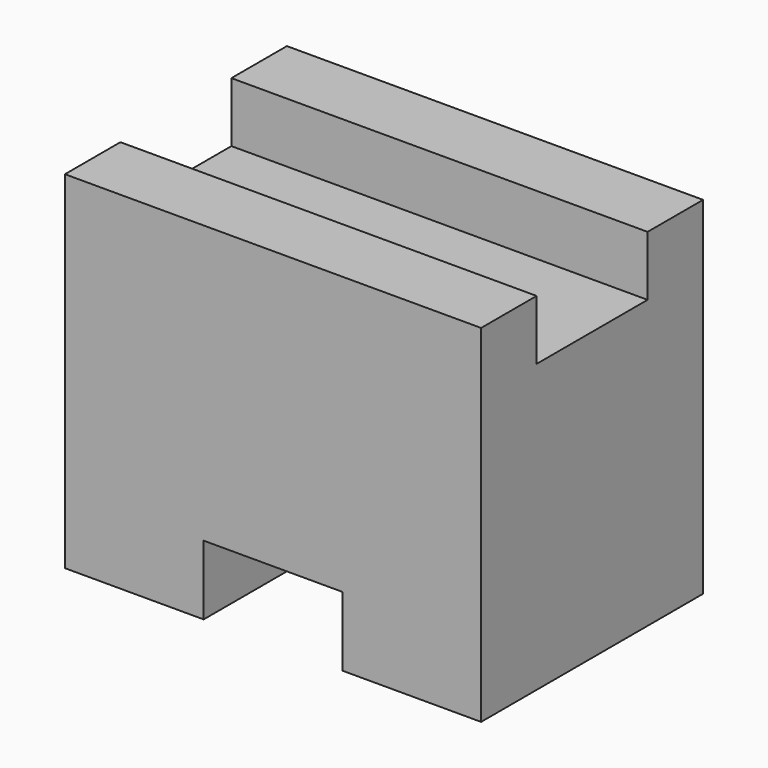
from build123d import *

# Parameters (mm, degrees)
F1_DEPTH = 38.1
F2_W     = 12.7
F2_H     = 6.35
F3_DEPTH = 25.401


with BuildPart() as f1:
    # F0 (on Right) → F1 (new body)
    with BuildSketch(Plane.YZ):
        Polygon((6.35, 31.75), (0, 31.75), (0, 0), (25.4, 0), (25.4, 31.75), (19.05, 31.75), (19.05, 26.271567), (6.35, 26.271567), align=None)
    extrude(amount=F1_DEPTH)

    # F2 (on face) → F3 (cut, through all)
    with BuildSketch(Plane.XZ):
        with Locations((19.05, 3.175)):
            Rectangle(F2_W, F2_H)
    extrude(amount=-F3_DEPTH, mode=Mode.SUBTRACT)


solid = f1.part
